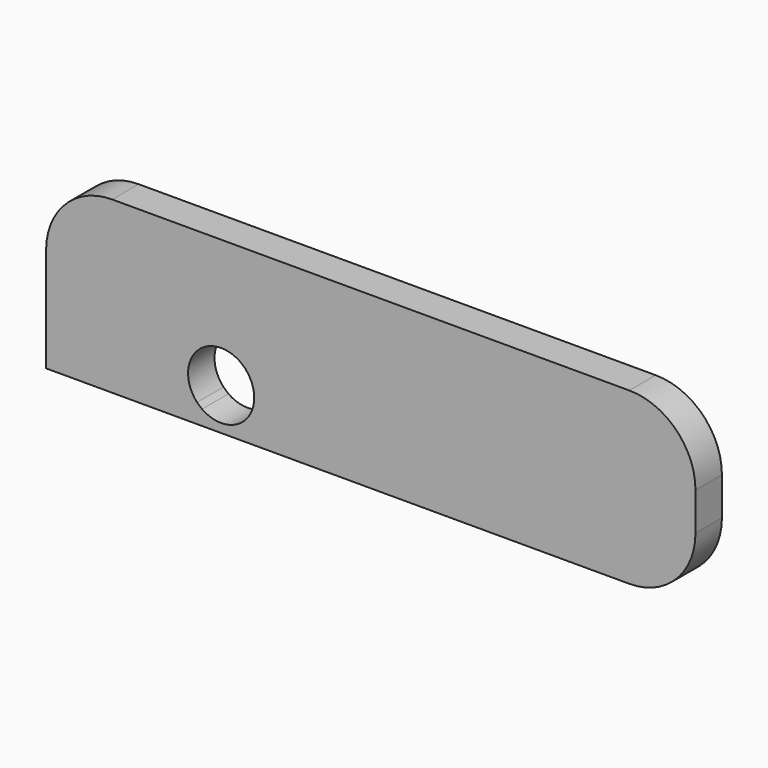
from build123d import *

# Parameters (mm, degrees)
F0_W     = 98.194085
F0_H     = 25.737483
F1_DEPTH = 5
F2_R     = 10
F3_R     = 10
F4_R     = 10
F6_DEPTH = 5.001


with BuildPart() as f1:
    # F0 (on Front) → F1 (new body)
    with BuildSketch(Plane.XZ):
        with Locations((14.827024, 13.008618)):
            Rectangle(F0_W, F0_H)
    extrude(amount=F1_DEPTH)

    # F2
    f2_edges = [f1.edges().sort_by_distance(p)[0] for p in [
        (63.924067, -2.5, 25.87736),
    ]]
    fillet(f2_edges, radius=F2_R)

    # F3
    f3_edges = [f1.edges().sort_by_distance(p)[0] for p in [
        (63.924067, -2.5, 0.139877),
    ]]
    fillet(f3_edges, radius=F3_R)

    # F4
    f4_edges = [f1.edges().sort_by_distance(p)[0] for p in [
        (-34.270018, -2.5, 25.87736),
    ]]
    fillet(f4_edges, radius=F4_R)

    # F5 (on face) → F6 (cut, through all)
    with BuildSketch(Plane.XZ.offset(5)):
        with BuildLine():
            ThreePointArc((-10.681925, 2.385375), (-5.498517, 2.031488), (-2.799221, 6.470717))
            ThreePointArc((-2.799221, 6.470717), (-5.581242, 10.951852), (-10.831449, 10.446342))
            ThreePointArc((-10.831449, 10.446342), (-12.782642, 6.877549), (-11.436118, 3.039539))
            Line((-11.436118, 3.039539), (-10.681925, 2.385375))
        make_face()
    extrude(amount=-F6_DEPTH, mode=Mode.SUBTRACT)


solid = f1.part
